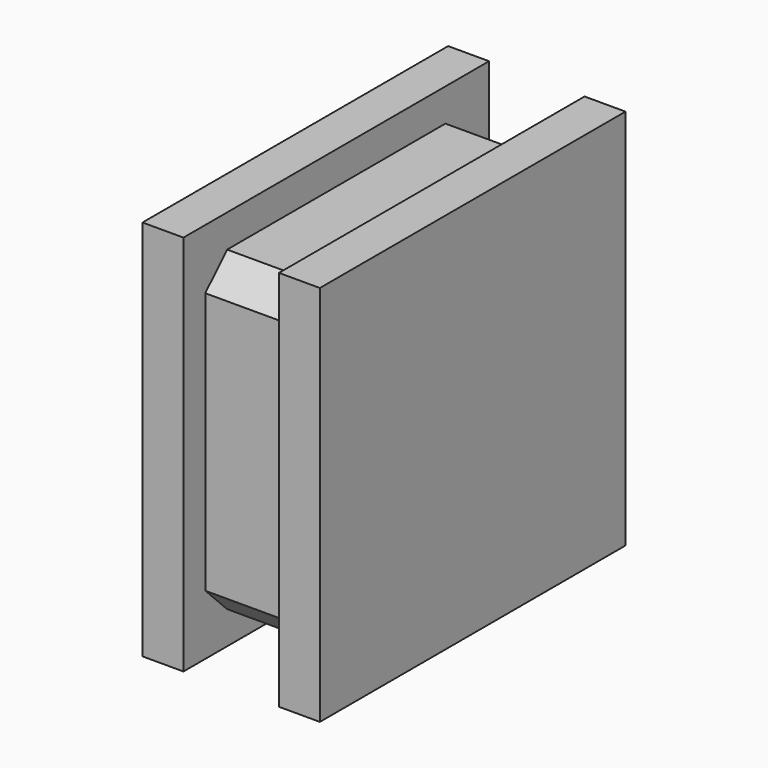
from build123d import *

# Parameters (mm, degrees)
BOX_W           = 6.5
BOX_H           = 14
BOX_DEPTH       = 14
SKETCH_W        = 3.5
SKETCH_H        = 1
POCKET_DEPTH    = 14
SKETCH001_W     = 3.5
SKETCH001_H     = 1.2
POCKET001_DEPTH = 14
CHAMFER_SIZE    = 1
CHAMFER001_SIZE = 1
CHAMFER002_SIZE = 1
CHAMFER003_SIZE = 1


with BuildPart() as part:
    # Box → Box (new body)
    with BuildSketch(Plane.XY):
        with Locations((3.25, 7)):
            Rectangle(BOX_W, BOX_H)
    extrude(amount=BOX_DEPTH)

    # Sketch → Pocket (cut)
    with BuildSketch(Plane.XY.offset(14)):
        with Locations((3.25, 13.5)):
            Rectangle(SKETCH_W, SKETCH_H)
        with Locations((3.25, 0.5)):
            Rectangle(SKETCH_W, SKETCH_H)
    extrude(amount=-POCKET_DEPTH, mode=Mode.SUBTRACT)

    # Sketch001 → Pocket001 (cut)
    with BuildSketch(Plane.XZ.offset(-1)):
        with Locations((3.25, 13.4)):
            Rectangle(SKETCH001_W, SKETCH001_H)
        with Locations((3.25, 0.6)):
            Rectangle(SKETCH001_W, SKETCH001_H)
    extrude(amount=-POCKET001_DEPTH, mode=Mode.SUBTRACT)

    # Chamfer
    chamfer_edges = [part.edges().sort_by_distance(p)[0] for p in [
        (3.25, 1, 12.8),
    ]]
    chamfer(chamfer_edges, length=CHAMFER_SIZE)

    # Chamfer001
    chamfer001_edges = [part.edges().sort_by_distance(p)[0] for p in [
        (3.25, 1, 1.2),
    ]]
    chamfer(chamfer001_edges, length=CHAMFER001_SIZE)

    # Chamfer002
    chamfer002_edges = [part.edges().sort_by_distance(p)[0] for p in [
        (3.25, 13, 12.8),
    ]]
    chamfer(chamfer002_edges, length=CHAMFER002_SIZE)

    # Chamfer003
    chamfer003_edges = [part.edges().sort_by_distance(p)[0] for p in [
        (3.25, 13, 1.2),
    ]]
    chamfer(chamfer003_edges, length=CHAMFER003_SIZE)


solid = part.part
